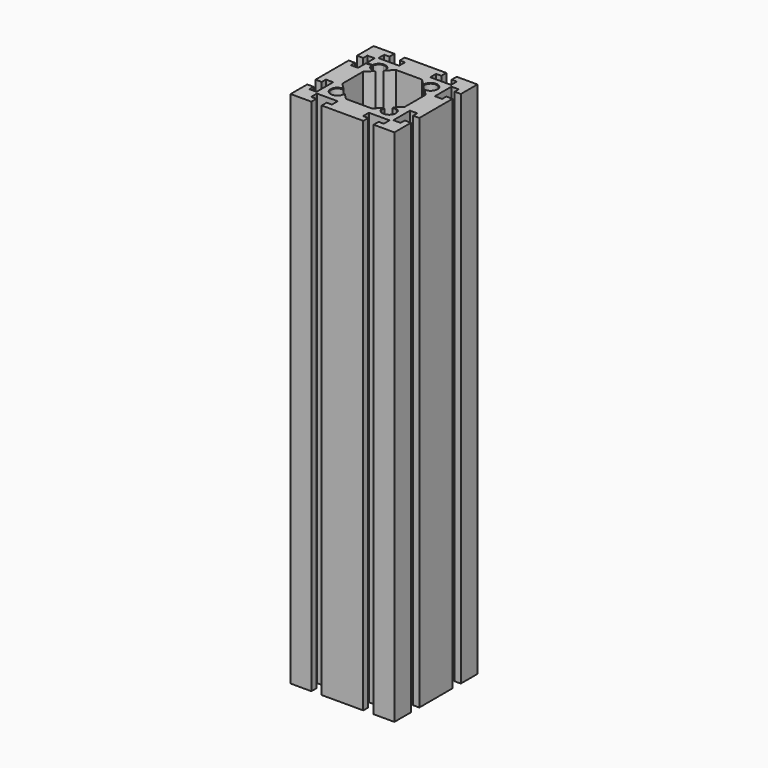
from build123d import *

# Parameters (mm, degrees)
F1_DEPTH = 500
F2_SIZE  = 0.5


with BuildPart() as f1:
    # F0 (on Top) → F1 (new body)
    with BuildSketch(Plane.XY):
        with BuildLine():
            Line((-30, 50), (-50, 50))
            Line((-50, 50), (-50, 30))
            Line((-50, 30), (-44, 30))
            Line((-44, 30), (-44, 35))
            Line((-44, 35), (-37, 35))
            Line((-37, 35), (-37, 25.5))
            Line((-37, 25.5), (-30.97913, 25.5))
            ThreePointArc((-30.97913, 25.5), (-29.242641, 29.242641), (-25.5, 30.97913))
            ThreePointArc((-25.5, 30.97913), (-20.408156, 28.861991), (-19.195037, 23.482633))
            Line((-19.195037, 23.482633), (-12.5, 30.17767))
            Line((-12.5, 30.17767), (12.5, 30.17767))
            Line((12.5, 30.17767), (19.195037, 23.482633))
            ThreePointArc((19.195037, 23.482633), (29.242641, 29.242641), (23.482633, 19.195037))
            Line((23.482633, 19.195037), (30.17767, 12.5))
            Line((30.17767, 12.5), (30.17767, -12.5))
            Line((30.17767, -12.5), (23.482633, -19.195037))
            ThreePointArc((23.482633, -19.195037), (29.242641, -29.242641), (19.195037, -23.482633))
            Line((19.195037, -23.482633), (12.5, -30.17767))
            Line((12.5, -30.17767), (-12.5, -30.17767))
            Line((-12.5, -30.17767), (-19.195037, -23.482633))
            ThreePointArc((-19.195037, -23.482633), (-29.242641, -29.242641), (-23.482633, -19.195037))
            Line((-23.482633, -19.195037), (-30.17767, -12.5))
            Line((-30.17767, -12.5), (-30.17767, 12.5))
            Line((-30.17767, 12.5), (-23.482633, 19.195037))
            ThreePointArc((-23.482633, 19.195037), (-28.465904, 20.102295), (-30.97913, 24.5))
            Line((-30.97913, 24.5), (-37, 24.5))
            Line((-37, 24.5), (-37, 15))
            Line((-37, 15), (-44, 15))
            Line((-44, 15), (-44, 20))
            Line((-44, 20), (-50, 20))
            Line((-50, 20), (-50, -20))
            Line((-50, -20), (-44, -20))
            Line((-44, -20), (-44, -15))
            Line((-44, -15), (-37, -15))
            Line((-37, -15), (-37, -35))
            Line((-37, -35), (-44, -35))
            Line((-44, -35), (-44, -30))
            Line((-44, -30), (-50, -30))
            Line((-50, -30), (-50, -50))
            Line((-50, -50), (-30, -50))
            Line((-30, -50), (-30, -44))
            Line((-30, -44), (-35, -44))
            Line((-35, -44), (-35, -37))
            Line((-35, -37), (-15, -37))
            Line((-15, -37), (-15, -44))
            Line((-15, -44), (-20, -44))
            Line((-20, -44), (-20, -50))
            Line((-20, -50), (20, -50))
            Line((20, -50), (20, -44))
            Line((20, -44), (15, -44))
            Line((15, -44), (15, -37))
            Line((15, -37), (35, -37))
            Line((35, -37), (35, -44))
            Line((35, -44), (30, -44))
            Line((30, -44), (30, -50))
            Line((30, -50), (50, -50))
            Line((50, -50), (50, -30))
            Line((50, -30), (44, -30))
            Line((44, -30), (44, -35))
            Line((44, -35), (37, -35))
            Line((37, -35), (37, -15))
            Line((37, -15), (44, -15))
            Line((44, -15), (44, -20))
            Line((44, -20), (50, -20))
            Line((50, -20), (50, 20))
            Line((50, 20), (44, 20))
            Line((44, 20), (44, 15))
            Line((44, 15), (37, 15))
            Line((37, 15), (37, 35))
            Line((37, 35), (44, 35))
            Line((44, 35), (44, 30))
            Line((44, 30), (50, 30))
            Line((50, 30), (50, 50))
            Line((50, 50), (30, 50))
            Line((30, 50), (30, 44))
            Line((30, 44), (35, 44))
            Line((35, 44), (35, 37))
            Line((35, 37), (15, 37))
            Line((15, 37), (15, 44))
            Line((15, 44), (20, 44))
            Line((20, 44), (20, 50))
            Line((20, 50), (-20, 50))
            Line((-20, 50), (-20, 44))
            Line((-20, 44), (-15, 44))
            Line((-15, 44), (-15, 37))
            Line((-15, 37), (-25.5, 37))
            Line((-25.5, 37), (-35, 37))
            Line((-35, 37), (-35, 44))
            Line((-35, 44), (-30, 44))
            Line((-30, 44), (-30, 50))
        make_face()
    extrude(amount=F1_DEPTH)

    # F2
    f2_edges = [f1.edges().sort_by_distance(p)[0] for p in [
        (-23.987564, 30.913964, 500),
        (-28.465904, 20.102295, 500),
        (-29.242641, -29.242641, 500),
        (29.242641, -29.242641, 500),
        (29.242641, 29.242641, 500),
        (29.242641, 29.242641, 0),
        (29.242641, -29.242641, 0),
        (-29.242641, -29.242641, 0),
        (-28.465904, 20.102295, 0),
        (-23.987564, 30.913964, 0),
    ]]
    chamfer(f2_edges, length=F2_SIZE)


solid = f1.part
